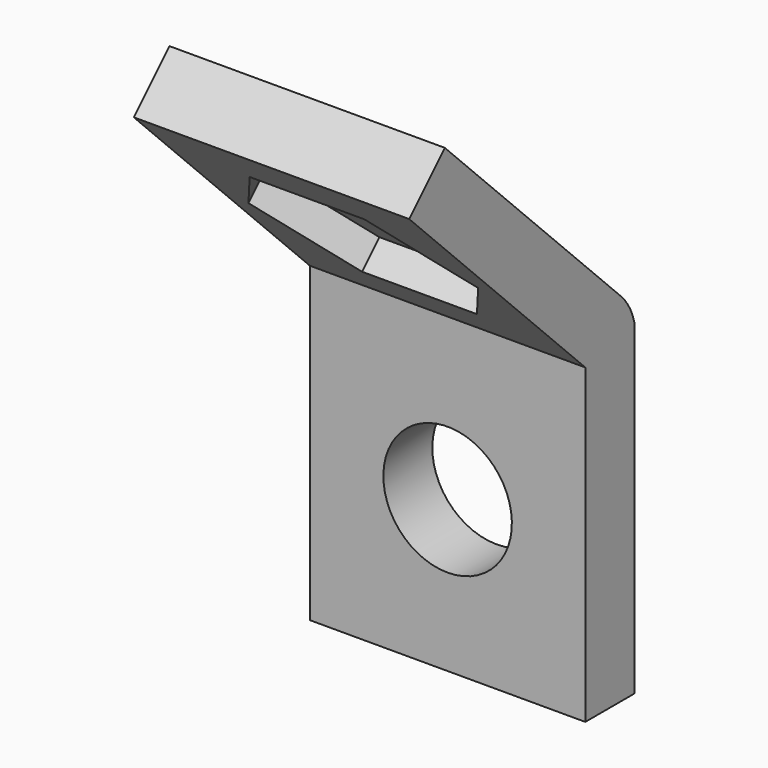
from build123d import *

# Parameters (mm, degrees)
PAD014_DEPTH    = 9
SKETCH027_R     = 4.2
POCKET006_DEPTH = 5
SKETCH029_R     = 4.2
POCKET007_DEPTH = 5
POCKET008_DEPTH = 2


with BuildPart() as part:
    # Sketch026 → Pad014 (new body, symmetric)
    with BuildSketch(Plane.YZ):
        with BuildLine():
            Line((76.8243574995, 1.148527), (80.8243574995, 1.148527))
            Line((80.8243574995, 1.148527), (80.8243574995, 22.527915258))
            ThreePointArc((80.8243574995, 22.527915258), (80.4127450289, 23.566637908), (79.7371364968, 24.4565382849))
            Line((79.7371364968, 24.4565382849), (65.343272443, 38.8504023386))
            Line((65.343272443, 38.8504023386), (62.4304934457, 35.9376233413))
            Line((62.4304934457, 35.9376233413), (76.8243574995, 21.5437592876))
            Line((76.8243574995, 21.5437592876), (76.8243574995, 1.148527))
        make_face()
    extrude(amount=PAD014_DEPTH, both=True)

    # Sketch027 (on Face7 of Pad014) → Pocket006 (cut)
    with BuildSketch(Plane(origin=(0, 76.8243574995, 0), x_dir=(0, 0, -1), z_dir=(0, -1, 0))):
        with Locations((-11.01278, 0)):
            Circle(SKETCH027_R)
    extrude(amount=-POCKET006_DEPTH, mode=Mode.SUBTRACT)

    # Sketch029 (on Face6 of Pocket006) → Pocket007 (cut)
    with BuildSketch(Plane(origin=(0, 49.1840583935, 49.1840583935), x_dir=(0, 0.7071067812, -0.7071067812), z_dir=(0, -0.7071067812, -0.7071067812))):
        with Locations((29.346884, 0)):
            Circle(SKETCH029_R)
    extrude(amount=-POCKET007_DEPTH, mode=Mode.SUBTRACT)

    # Sketch030 (on Face6 of Pocket007) → Pocket008 (cut)
    with BuildSketch(Plane(origin=(0, 49.1840583935, 49.1840583935), x_dir=(0, 0.7071067812, -0.7071067812), z_dir=(0, -0.7071067812, -0.7071067812))):
        Polygon((22.846884, 3.7527767497), (22.846884, -3.7527767497), (29.346884, -7.5055534995), (35.846884, -3.7527767497), (35.846884, 3.7527767497), (29.346884, 7.5055534995), align=None)
    extrude(amount=-POCKET008_DEPTH, mode=Mode.SUBTRACT)


solid = part.part
